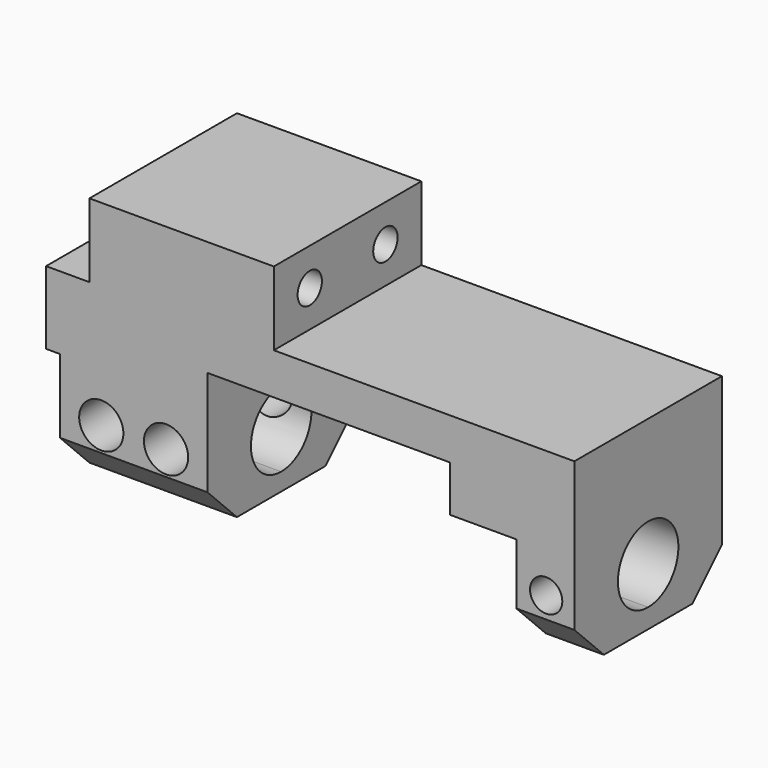
from build123d import *

# Parameters (mm, degrees)
F1_DEPTH      = 10
F2_SIZE       = 4
F4_W          = 20
F4_H          = 20.101140447
F5_DEPTH      = 3.3
F5_DEPTH_BACK = 3
F6_DEPTH      = 84
F7_SIZE       = 4
F8_R          = 1.75
F9_DEPTH      = 8.7
F10_R         = 1.65
F11_DEPTH     = 66.9
F12_R         = 2.4
F13_DEPTH     = 25


with BuildPart() as f1:
    # F0 (on Front) → F1 (new body, symmetric)
    with BuildSketch(Plane.XZ):
        Polygon((-22.3, 4.5), (-27, 4.5), (-27, -3.4), (-25.5, -3.4), (-25.5, -15.4), (-9.5, -15.4), (-9.5, 0), (16.8, 0), (16.8, -5), (27, -5), (27, 0), (27, 4.5), (-2.3, 4.5), (-2.3, 12.5), (-22.3, 12.5), align=None)
    extrude(amount=F1_DEPTH, both=True)

    # F2
    f2_edges = [f1.edges().sort_by_distance(p)[0] for p in [
        (-17.5, -10, -15.4),
        (-17.5, 10, -15.4),
    ]]
    chamfer(f2_edges, length=F2_SIZE)

    # F4 (on face) → F5 (join, two sides)
    with BuildSketch(Plane.YZ.offset(27)) as f5_sk:
        with Locations((0, -5.5505702235)):
            Rectangle(F4_W, F4_H)
    extrude(amount=F5_DEPTH)
    extrude(f5_sk.sketch, amount=-F5_DEPTH_BACK)

    # F3 (on face) → F6 (cut)
    with BuildSketch(Plane(origin=(-25.5, 0, 0), x_dir=(0, -1, 0), z_dir=(-1, 0, 0))):
        with BuildLine():
            ThreePointArc((4.1, -9.4), (2.8991378029, -6.5008621971), (0, -5.3))
            Line((0, -5.3), (0, -13.5))
            ThreePointArc((0, -13.5), (2.8991378029, -12.2991378029), (4.1, -9.4))
        make_face()
        with BuildLine():
            Line((0, -13.5), (0, -5.3))
            ThreePointArc((0, -5.3), (-4.1, -9.4), (0, -13.5))
        make_face()
    extrude(amount=-F6_DEPTH, mode=Mode.SUBTRACT)

    # F7
    f7_edges = [f1.edges().sort_by_distance(p)[0] for p in [
        (27.15, 10, -15.60114),
        (27.15, -10, -15.60114),
    ]]
    chamfer(f7_edges, length=F7_SIZE)

    # F8 (on face) → F9 (cut)
    with BuildSketch(Plane.XZ.offset(10)):
        with Locations((27.2387061268, -9.3012042344)):
            Circle(F8_R)
    extrude(amount=-F9_DEPTH, mode=Mode.SUBTRACT)

    # F10 (on face) → F11 (cut)
    with BuildSketch(Plane.YZ.offset(30.3)):
        with Locations((5.1269349642, 8.461603526)):
            Circle(F10_R)
        with Locations((-5.1269349642, 8.461603526)):
            Circle(F10_R)
    extrude(amount=-F11_DEPTH, mode=Mode.SUBTRACT)

    # F12 (on face) → F13 (cut)
    with BuildSketch(Plane(origin=(0, 10, 0), x_dir=(-1, 0, 0), z_dir=(0, 1, 0))):
        with Locations((21.0122950375, -8.7536005303)):
            Circle(F12_R)
        with Locations((13.9877049625, -8.7536005303)):
            Circle(F12_R)
    extrude(amount=-F13_DEPTH, mode=Mode.SUBTRACT)


solid = f1.part
